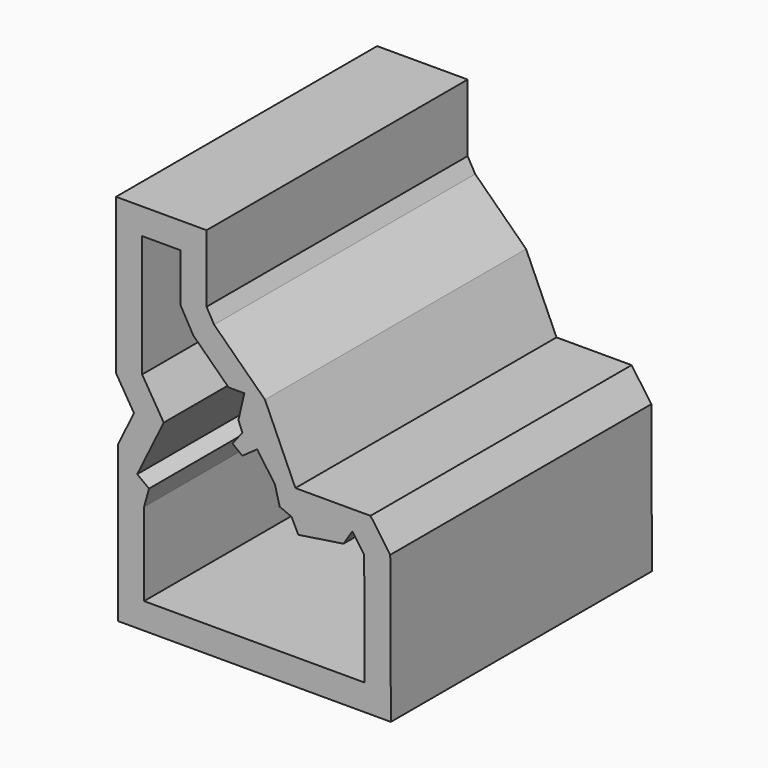
from build123d import *

# Parameters (mm, degrees)
F1_DEPTH = 50


with BuildPart() as f1:
    # F0 (on Front) → F1 (new body)
    with BuildSketch(Plane.XZ):
        Polygon((-39.080582, 53.752999), (-39.080582, 29.963545), (-36.328474, 25.460097), (-38.779549, 20.467168), (-38.779549, -3.381329), (3.029354, -3.381329), (2.930473, 19.121045), (-0.091638, 23.40237), (-11.598663, 23.40237), (-16.2607, 33.807004), (-24.053911, 41.383733), (-25.210454, 43.429926), (-25.210454, 53.752999), align=None)
        Polygon((-1.063952, 17.843597), (-0.988262, 0.618671), (-34.779549, 0.618671), (-34.779549, 13.328114), (-34.026969, 16.037403), (-35.833161, 17.392047), (-31.769227, 25.67043), (-35.080582, 31.089008), (-35.080582, 49.752999), (-29.210454, 49.752999), (-29.210454, 42.377714), (-27.253745, 38.915843), (-21.835167, 33.647783), (-19.42691, 33.647783), (-20.330006, 29.734364), (-19.727943, 28.229203), (-21.233102, 26.272494), (-19.727943, 25.114681), (-17.470201, 26.724044), (-14.737966, 22.891048), (-14.008333, 20.101337), (-12.20214, 19.348757), (-11.148528, 17.241532), (-4.224789, 18.295145), (-2.870144, 20.40237), align=None, mode=Mode.SUBTRACT)
    extrude(amount=F1_DEPTH)


solid = f1.part
